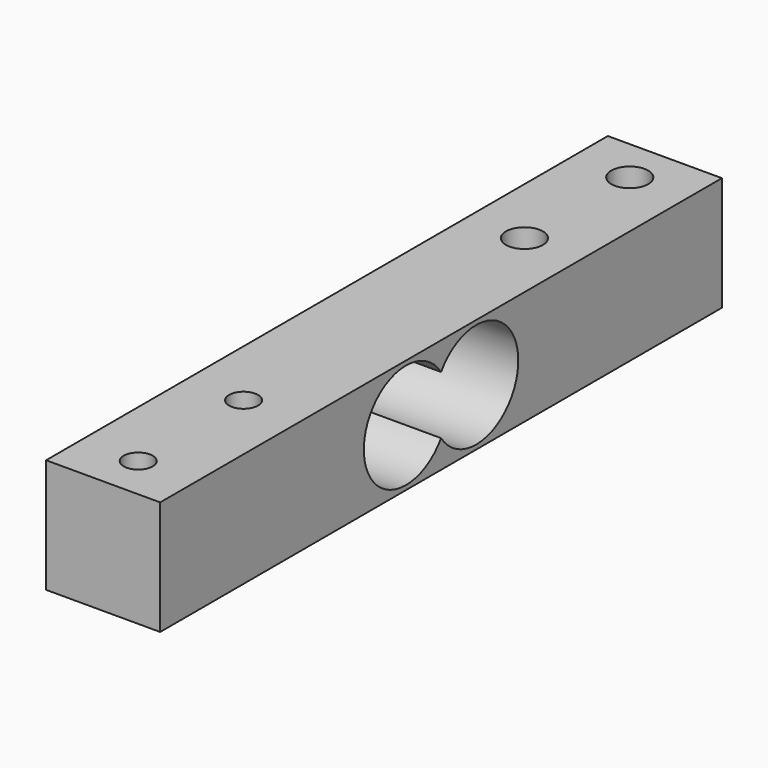
from build123d import *

# Parameters (mm, degrees)
F0_W     = 13
F0_H     = 13
F1_DEPTH = 40
F3_DEPTH = 6.5
F5_D     = 3.3
F6_D     = 4.2


with BuildPart() as f1:
    # F0 (on Front) → F1 (new body, symmetric)
    with BuildSketch(Plane.XZ):
        Rectangle(F0_W, F0_H)
    extrude(amount=F1_DEPTH, both=True)

    # F2 (on Right) → F3 (cut, symmetric)
    with BuildSketch(Plane.YZ):
        with BuildLine():
            ThreePointArc((0, -3.3166247904), (11, 0), (0, 3.3166247904))
            ThreePointArc((0, 3.3166247904), (-11, 0), (0, -3.3166247904))
        make_face()
    extrude(amount=F3_DEPTH, both=True, mode=Mode.SUBTRACT)

    # F5 (through all)
    with Locations(Plane.XY.offset(6.5)):
        with Locations((0, -35), (0, -20)):
            Hole(F5_D / 2)

    # F6 (through all)
    with Locations(Plane.XY.offset(6.5)):
        with Locations((0, 20), (0, 35)):
            Hole(F6_D / 2)


solid = f1.part
